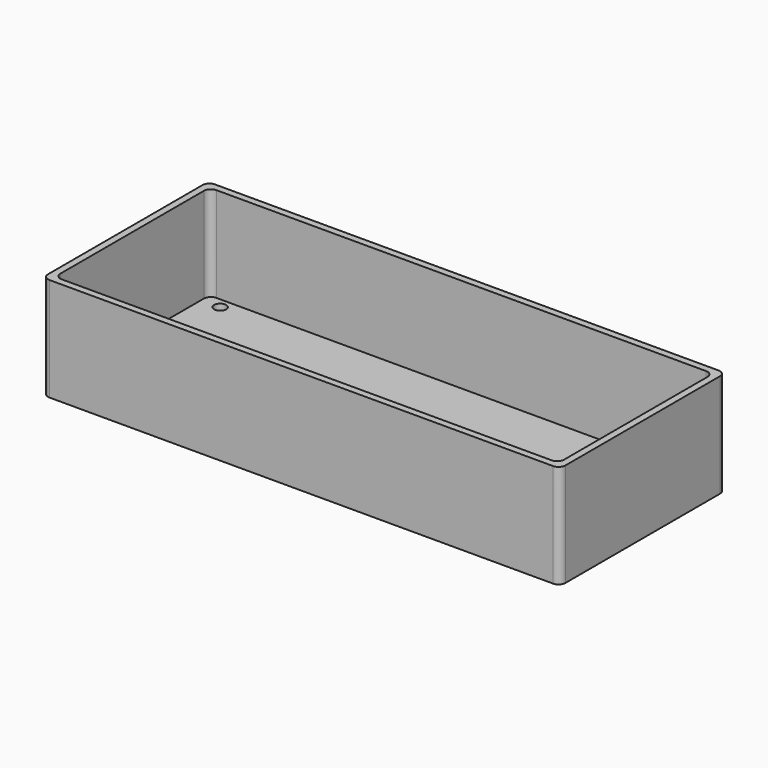
from build123d import *

# Parameters (mm, degrees)
F0_W     = 150
F0_H     = 60
F1_DEPTH = 2.5
F2_W     = 150
F2_H     = 60
F2_W_2   = 146
F2_H_2   = 56
F3_DEPTH = 30
F4_R     = 2


with BuildPart() as f1:
    # F0 (on Top) → F1 (new body)
    with BuildSketch(Plane.XY):
        Rectangle(F0_W, F0_H)
        with BuildLine():
            ThreePointArc((-65.75, -25), (-68.7374368671, -26.2374368671), (-67.5, -23.25))
            ThreePointArc((-67.5, -23.25), (-66.2625631329, -23.7625631329), (-65.75, -25))
        make_face(mode=Mode.SUBTRACT)
        with BuildLine():
            ThreePointArc((69.25, -25), (66.2625631329, -26.2374368671), (67.5, -23.25))
            ThreePointArc((67.5, -23.25), (68.7374368671, -23.7625631329), (69.25, -25))
        make_face(mode=Mode.SUBTRACT)
        with BuildLine():
            ThreePointArc((-65.75, 25), (-66.2625631329, 23.7625631329), (-67.5, 23.25))
            ThreePointArc((-67.5, 23.25), (-68.7374368671, 26.2374368671), (-65.75, 25))
        make_face(mode=Mode.SUBTRACT)
        with BuildLine():
            ThreePointArc((52, 0), (40, -12), (28, 0))
            ThreePointArc((28, 0), (40, 12), (52, 0))
        make_face(mode=Mode.SUBTRACT)
        with BuildLine():
            ThreePointArc((69.25, 25), (68.7374368671, 23.7625631329), (67.5, 23.25))
            ThreePointArc((67.5, 23.25), (66.2625631329, 26.2374368671), (69.25, 25))
        make_face(mode=Mode.SUBTRACT)
    extrude(amount=F1_DEPTH)

    # F2 (on Top) → F3 (join)
    with BuildSketch(Plane.XY):
        Rectangle(F2_W, F2_H)
        Rectangle(F2_W_2, F2_H_2, mode=Mode.SUBTRACT)
    extrude(amount=F3_DEPTH)

    # F4
    f4_edges = [f1.edges().sort_by_distance(p)[0] for p in [
        (-73, 28, 16.25),
        (73, 28, 16.25),
        (-73, -28, 16.25),
        (73, -28, 16.25),
        (-75, 30, 15),
        (-75, -30, 15),
        (75, -30, 15),
        (75, 30, 15),
    ]]
    fillet(f4_edges, radius=F4_R)


solid = f1.part
